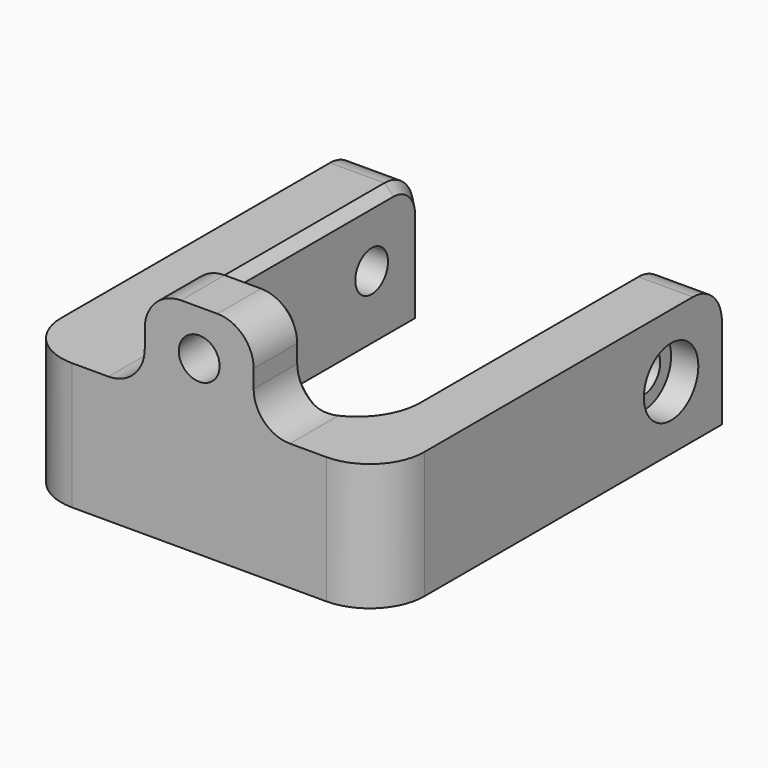
from build123d import *

# Parameters (mm, degrees)
PAD_DEPTH       = 14
SKETCH001_W     = 12
SKETCH001_H     = 7
PAD001_DEPTH    = 10
FILLET_R        = 4
FILLET001_R     = 6
SKETCH002_R     = 2.25
POCKET_DEPTH    = 7
SKETCH003_R     = 2.25
POCKET001_DEPTH = 41
FILLET002_R     = 4
CHAMFER_SIZE    = 1
SKETCH004_R     = 3.75
POCKET002_DEPTH = 3
SKETCH005_R     = 3.75
POCKET003_DEPTH = 3


with BuildPart() as part:
    # Sketch → Pad (new body)
    with BuildSketch(Plane.XY):
        Polygon((-20, 47), (-13, 47), (-13, 7), (13, 7), (13, 47), (20, 47), (20, 0), (-20, 0), align=None)
    extrude(amount=PAD_DEPTH)

    # Sketch001 (on Face10 of Pad) → Pad001 (join)
    with BuildSketch(Plane.XY.offset(14)):
        with Locations((0, 3.5)):
            Rectangle(SKETCH001_W, SKETCH001_H)
    extrude(amount=PAD001_DEPTH)

    # Fillet
    fillet_edges = [part.edges().sort_by_distance(p)[0] for p in [
        (-6, 3.5, 14),
        (-6, 3.5, 24),
        (6, 3.5, 24),
        (6, 3.5, 14),
    ]]
    fillet(fillet_edges, radius=FILLET_R)

    # Fillet001
    fillet001_edges = [part.edges().sort_by_distance(p)[0] for p in [
        (20, 0, 7),
        (-20, 0, 7),
        (-13, 7, 7),
        (13, 7, 7),
    ]]
    fillet(fillet001_edges, radius=FILLET001_R)

    # Sketch002 (on Face4 of Fillet001) → Pocket (cut)
    with BuildSketch(Plane.XZ):
        with Locations((0, 19)):
            Circle(SKETCH002_R)
    extrude(amount=-POCKET_DEPTH, mode=Mode.SUBTRACT)

    # Sketch003 (on Face8 of Pocket) → Pocket001 (cut)
    with BuildSketch(Plane(origin=(-20, 0, 0), x_dir=(0, -1, 0), z_dir=(-1, 0, 0))):
        with Locations((-40, 7)):
            Circle(SKETCH003_R)
    extrude(amount=-POCKET001_DEPTH, mode=Mode.SUBTRACT)

    # Fillet002
    fillet002_edges = [part.edges().sort_by_distance(p)[0] for p in [
        (16.5, 47, 14),
        (-16.5, 47, 14),
    ]]
    fillet(fillet002_edges, radius=FILLET002_R)

    # Chamfer
    chamfer_edges = [part.edges().sort_by_distance(p)[0] for p in [
        (-13, 47, 5),
        (13, 47, 5),
    ]]
    chamfer(chamfer_edges, length=CHAMFER_SIZE)

    # Sketch004 (on Face4 of Chamfer) → Pocket002 (cut)
    with BuildSketch(Plane(origin=(-20, 0, 0), x_dir=(0, -1, 0), z_dir=(-1, 0, 0))):
        with Locations((-40, 7)):
            Circle(SKETCH004_R)
    extrude(amount=-POCKET002_DEPTH, mode=Mode.SUBTRACT)

    # Sketch005 (on Face33 of Pocket002) → Pocket003 (cut)
    with BuildSketch(Plane.YZ.offset(20)):
        with Locations((40, 7)):
            Circle(SKETCH005_R)
    extrude(amount=-POCKET003_DEPTH, mode=Mode.SUBTRACT)


solid = part.part
